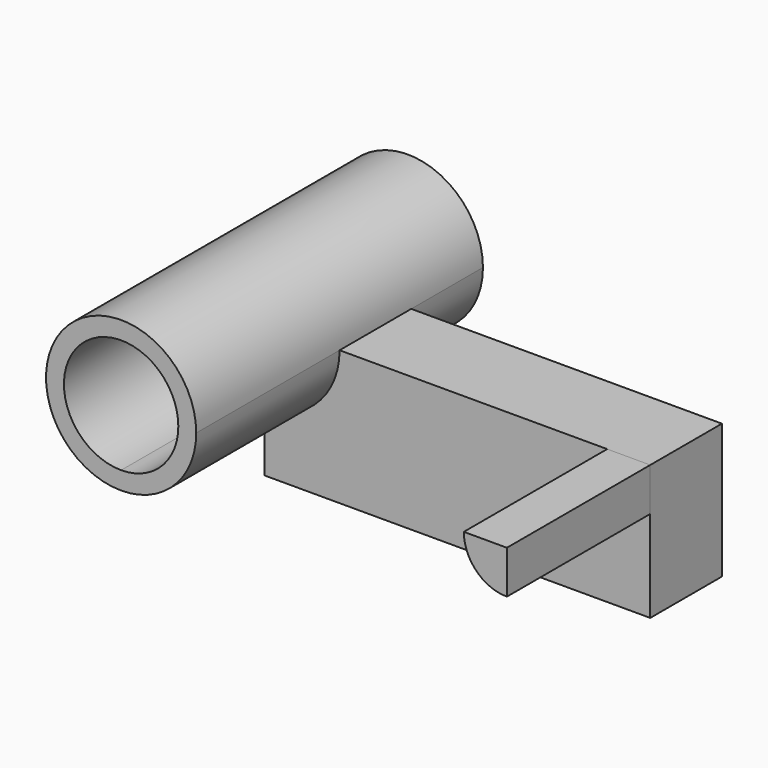
from build123d import *

# Parameters (mm, degrees)
F3_DEPTH = 25.4
F4_DEPTH = 25.4
F5_DEPTH = 12.7
F6_T     = -2.54


with BuildPart() as f3:
    # F0 (on Front) → F3 (new body, symmetric)
    with BuildSketch(Plane.XZ):
        with BuildLine():
            Line((-27.341943, 9.542671), (-16.694574, 9.542671))
            ThreePointArc((-16.694574, 9.542671), (-34.870769, 17.071497), (-27.341943, -1.104698))
            Line((-27.341943, -1.104698), (-27.341943, 9.542671))
        make_face()
        with BuildLine():
            ThreePointArc((-27.341943, -1.104698), (-19.813116, 2.013844), (-16.694574, 9.542671))
            Line((-16.694574, 9.542671), (-27.341943, 9.542671))
            Line((-27.341943, 9.542671), (-27.341943, -1.104698))
        make_face()
    extrude(amount=F3_DEPTH, both=True)

    # F6
    f6_openings = [f3.faces().sort_by_distance(p)[0] for p in [
        (-27.341943, -25.4, 9.542671),
        (-27.341943, 25.4, 9.542671),
    ]]
    offset(amount=F6_T, openings=f6_openings)


with BuildPart() as f4:
    # F0 (on Front) → F4 (new body)
    with BuildSketch(Plane.XZ):
        with BuildLine():
            Line((27.341943, 9.542671), (21.234945, 9.542671))
            ThreePointArc((21.234945, 9.542671), (23.023643, 5.224371), (27.341943, 3.435673))
            Line((27.341943, 3.435673), (27.341943, 9.542671))
        make_face()
    extrude(amount=F4_DEPTH)


with BuildPart() as f5:
    # F0 (on Front) → F5 (new body)
    with BuildSketch(Plane.XZ):
        with BuildLine():
            Line((21.234945, 9.542671), (-16.694574, 9.542671))
            ThreePointArc((-16.694574, 9.542671), (-19.813116, 2.013844), (-27.341943, -1.104698))
            Line((-27.341943, -1.104698), (-27.341943, -9.542671))
            Line((-27.341943, -9.542671), (27.341943, -9.542671))
            Line((27.341943, -9.542671), (27.341943, 3.435673))
            ThreePointArc((27.341943, 3.435673), (23.023643, 5.224371), (21.234945, 9.542671))
        make_face()
        with BuildLine():
            Line((27.341943, 9.542671), (21.234945, 9.542671))
            ThreePointArc((21.234945, 9.542671), (23.023643, 5.224371), (27.341943, 3.435673))
            Line((27.341943, 3.435673), (27.341943, 9.542671))
        make_face()
    extrude(amount=-F5_DEPTH)


solid = Compound([f3.part, f4.part, f5.part])
